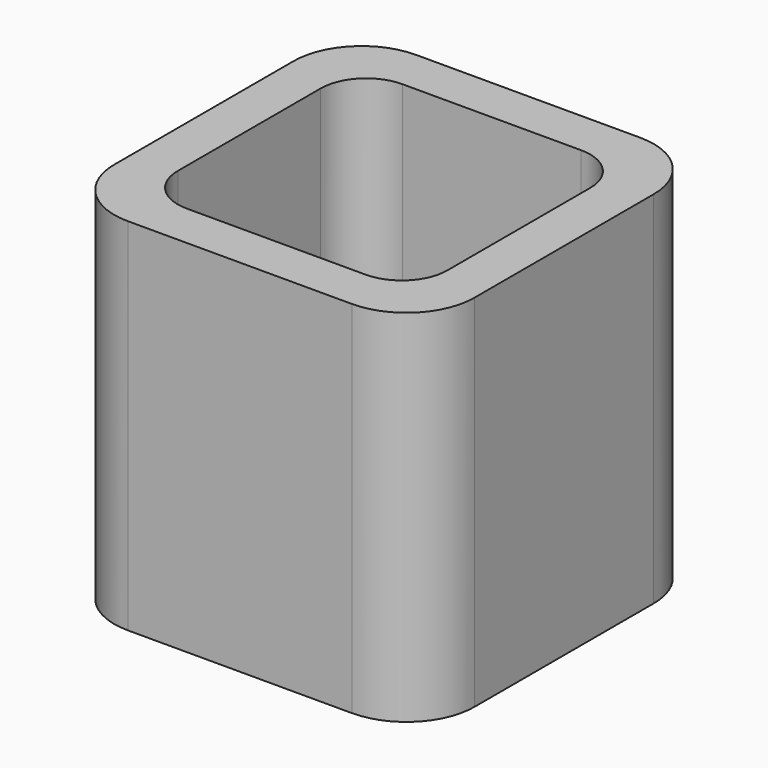
from build123d import *

# Parameters (mm, degrees)
EXTRUDE_DEPTH = 50


with BuildPart() as part:
    # Sketch → Extrude (new body)
    with BuildSketch(Plane.XY):
        with BuildLine():
            Line((-15.55, 25), (15.55, 25))
            ThreePointArc((25, 15.55), (22.232159, 22.232159), (15.55, 25))
            Line((25, 15.55), (25, -15.55))
            ThreePointArc((15.55, -25), (22.232159, -22.232159), (25, -15.55))
            Line((15.55, -25), (-15.55, -25))
            ThreePointArc((-25, -15.55), (-22.232159, -22.232159), (-15.55, -25))
            Line((-25, -15.55), (-25, 15.55))
            ThreePointArc((-15.55, 25), (-22.232159, 22.232159), (-25, 15.55))
        make_face()
        with BuildLine():
            Line((-12.4, 18.7), (12.4, 18.7))
            ThreePointArc((18.7, 12.4), (16.854773, 16.854773), (12.4, 18.7))
            Line((18.7, 12.4), (18.7, -12.4))
            ThreePointArc((12.4, -18.7), (16.854773, -16.854773), (18.7, -12.4))
            Line((12.4, -18.7), (-12.4, -18.7))
            ThreePointArc((-18.7, -12.4), (-16.854773, -16.854773), (-12.4, -18.7))
            Line((-18.7, -12.4), (-18.7, 12.4))
            ThreePointArc((-12.4, 18.7), (-16.854773, 16.854773), (-18.7, 12.4))
        make_face(mode=Mode.SUBTRACT)
    extrude(amount=EXTRUDE_DEPTH)


solid = part.part
